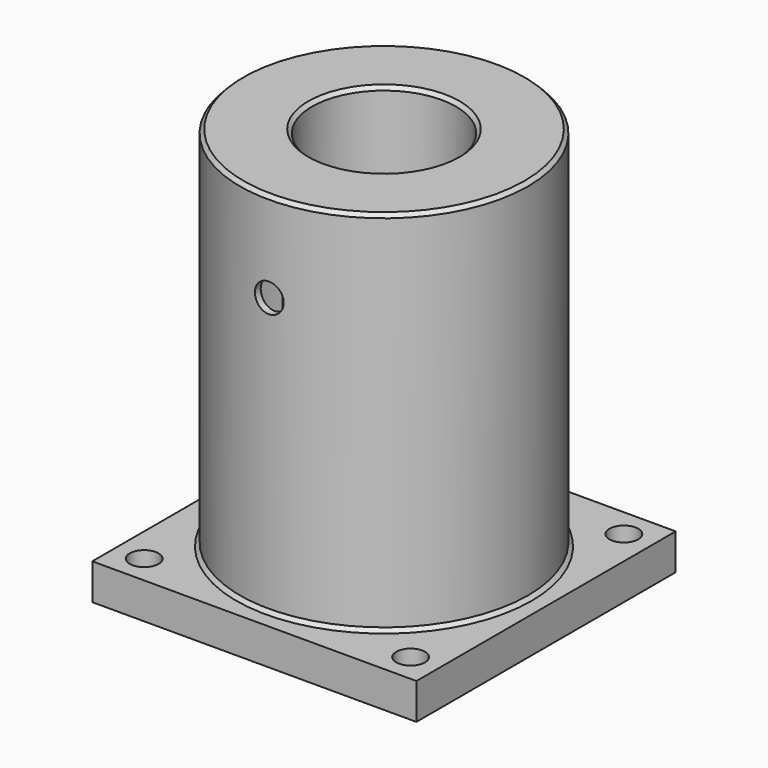
from build123d import *

# Parameters (mm, degrees)
F0_W      = 90
F0_H      = 90
F0_R      = 4
F1_DEPTH  = 10
F2_R      = 40
F2_R_2    = 38
F3_DEPTH  = 100
F7_SIZE   = 1
F8_SIZE   = 1
F10_R     = 4
F11_DEPTH = 80


with BuildPart() as f1:
    # F0 (on Top) → F1 (new body)
    with BuildSketch(Plane.XY):
        Rectangle(F0_W, F0_H)
        with Locations((-37, -37)):
            Circle(F0_R, mode=Mode.SUBTRACT)
        with Locations((37, -37)):
            Circle(F0_R, mode=Mode.SUBTRACT)
        with Locations((-37, 37)):
            Circle(F0_R, mode=Mode.SUBTRACT)
        with Locations((37, 37)):
            Circle(F0_R, mode=Mode.SUBTRACT)
    extrude(amount=-F1_DEPTH)

    # F2 (on face) → F3 (join)
    with BuildSketch(Plane.XY):
        Circle(F2_R)
        Circle(F2_R_2, mode=Mode.SUBTRACT)
    extrude(amount=F3_DEPTH)

    # F5 (on Front) → F6 (revolve)
    with BuildSketch(Plane.XZ):
        Polygon((0, 52), (0, 50), (22, 50), (22, 100), (40, 100), (40, 102), (20, 102), (20, 52), align=None)
    revolve(axis=Axis((0, 0, 75.148744), (0, 0, 1)))

    # F7
    f7_edges = [f1.edges().sort_by_distance(p)[0] for p in [
        (-40, 0, 0),
        (40, 0, 51),
        (-40, 0, 102),
    ]]
    chamfer(f7_edges, length=F7_SIZE)

    # F8
    f8_edges = [f1.edges().sort_by_distance(p)[0] for p in [
        (-20, 0, 102),
    ]]
    chamfer(f8_edges, length=F8_SIZE)

    # F10 (on offset) → F11 (cut)
    with BuildSketch(Plane.XZ.offset(40)):
        with Locations((0, 77)):
            Circle(F10_R)
    extrude(amount=-F11_DEPTH, mode=Mode.SUBTRACT)


solid = f1.part
